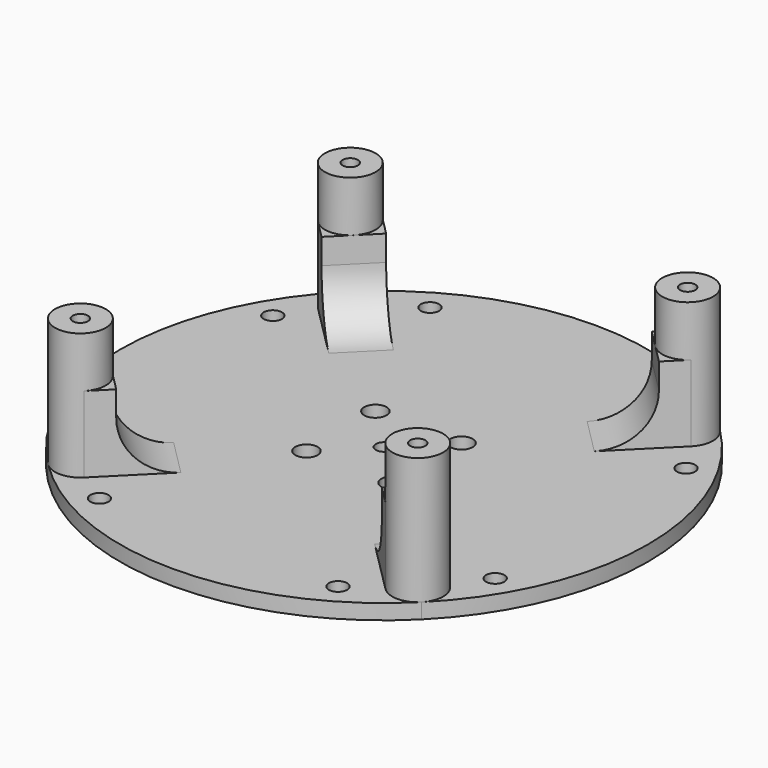
from build123d import *

# Parameters (mm, degrees)
SKETCH003_R             = 52
SKETCH003_R_2           = 1.6
SKETCH003_R_3           = 2.2
PAD002_DEPTH            = 3
SKETCH005_R             = 5
PAD004_DEPTH            = 28
SKETCH007_R             = 1.5
POCKET002_DEPTH         = 10
SKETCH011_R             = 1.8
POCKET004_DEPTH         = 5
PAD011_DEPTH            = 5
PAD012_DEPTH            = 5
BODY001_PLACEMENT_ANGLE = 180


with BuildPart() as part:
    # Sketch003 → Pad002 (new body)
    with BuildSketch(Plane.XY):
        Circle(SKETCH003_R)
        Circle(SKETCH003_R_2, mode=Mode.SUBTRACT)
        with Locations((8.485281, 8.485281)):
            Circle(SKETCH003_R_3, mode=Mode.SUBTRACT)
        with Locations((-8.485281, 8.485281)):
            Circle(SKETCH003_R_3, mode=Mode.SUBTRACT)
        with Locations((-8.485281, -8.485281)):
            Circle(SKETCH003_R_3, mode=Mode.SUBTRACT)
        with Locations((8.485281, -8.485281)):
            Circle(SKETCH003_R_3, mode=Mode.SUBTRACT)
    extrude(amount=PAD002_DEPTH)

    # Sketch005 → Pad004 (join)
    with BuildSketch(Plane.XY):
        with Locations((33.234019, 33.234019)):
            Circle(SKETCH005_R)
        with Locations((-33.234019, 33.234019)):
            Circle(SKETCH005_R)
        with Locations((-33.234019, -33.234019)):
            Circle(SKETCH005_R)
        with Locations((33.234019, -33.234019)):
            Circle(SKETCH005_R)
    extrude(amount=PAD004_DEPTH)

    # Sketch007 → Pocket002 (cut)
    with BuildSketch(Plane.XY.offset(28)):
        with Locations((33.234019, 33.234019)):
            Circle(SKETCH007_R)
        with Locations((-33.234019, 33.234019)):
            Circle(SKETCH007_R)
        with Locations((-33.234019, -33.234019)):
            Circle(SKETCH007_R)
        with Locations((33.234019, -33.234019)):
            Circle(SKETCH007_R)
    extrude(amount=-POCKET002_DEPTH, mode=Mode.SUBTRACT)

    # Sketch011 → Pocket004 (cut)
    with BuildSketch(Plane.XY):
        with Locations((23.5, 40.703194)):
            Circle(SKETCH011_R)
        with Locations((-40.703194, 23.5)):
            Circle(SKETCH011_R)
        with Locations((-23.5, -40.703194)):
            Circle(SKETCH011_R)
        with Locations((40.703194, -23.5)):
            Circle(SKETCH011_R)
        with Locations((-23.5, 40.703194)):
            Circle(SKETCH011_R)
        with Locations((40.703194, 23.5)):
            Circle(SKETCH011_R)
        with Locations((23.5, -40.703194)):
            Circle(SKETCH011_R)
        with Locations((-40.703194, -23.5)):
            Circle(SKETCH011_R)
    extrude(amount=POCKET004_DEPTH, mode=Mode.SUBTRACT)

    # Sketch018 → Pad011 (join, symmetric)
    with BuildSketch(Plane(origin=(0, 0, 0), x_dir=(-0.707107, 0.707107, 0), z_dir=(0.707107, 0.707107, 0))):
        with BuildLine():
            Line((-47, 18), (-47, 3))
            Line((-47, 3), (-32, 3))
            ThreePointArc((-42, 13), (-39.071068, 5.928932), (-32, 3))
            Line((-42, 13), (-42, 18))
            Line((-42, 18), (-47, 18))
        make_face()
        with BuildLine():
            Line((47, 18), (47, 3))
            Line((47, 3), (32, 3))
            ThreePointArc((32, 3), (39.071068, 5.928932), (42, 13))
            Line((42, 13), (42, 18))
            Line((42, 18), (47, 18))
        make_face()
    extrude(amount=PAD011_DEPTH, both=True)

    # Sketch019 → Pad012 (join, symmetric)
    with BuildSketch(Plane(origin=(0, 0, 0), x_dir=(0.707107, 0.707107, 0), z_dir=(0.707107, -0.707107, 0))):
        with BuildLine():
            Line((-47, 18), (-47, 3))
            Line((-47, 3), (-32, 3))
            ThreePointArc((-42, 13), (-39.071068, 5.928932), (-32, 3))
            Line((-42, 13), (-42, 18))
            Line((-42, 18), (-47, 18))
        make_face()
        with BuildLine():
            Line((47, 18), (47, 3))
            Line((47, 3), (32, 3))
            ThreePointArc((32, 3), (39.071068, 5.928932), (42, 13))
            Line((42, 13), (42, 18))
            Line((42, 18), (47, 18))
        make_face()
    extrude(amount=PAD012_DEPTH, both=True)


with BuildPart() as part_1:
    # Body001 placement: moved
    add(part.part.moved(Location((0, 0, 23))).rotate(Axis((0, 0, 23), (0, 0, -1)), BODY001_PLACEMENT_ANGLE))


solid = part_1.part
